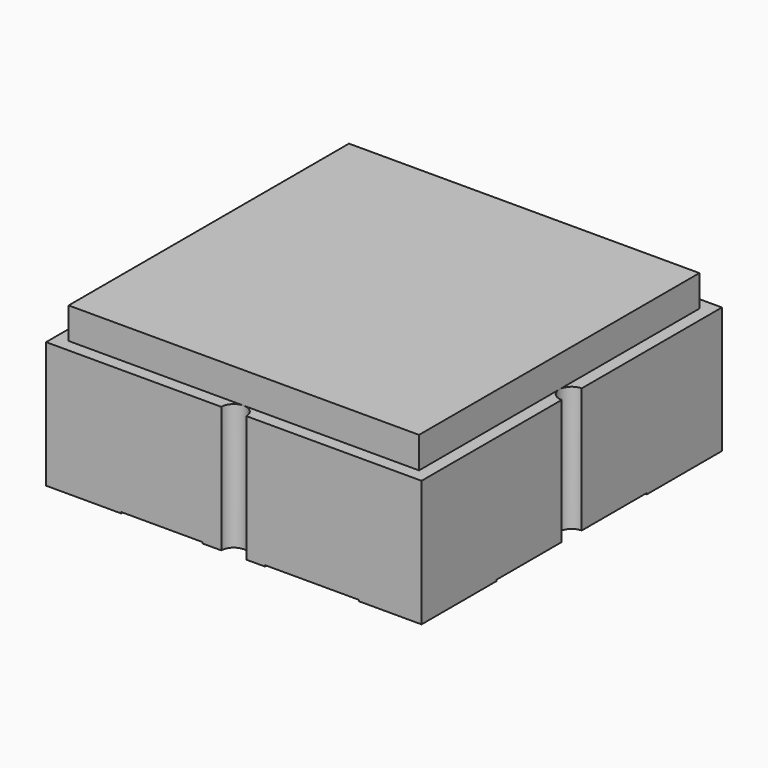
from build123d import *

# Parameters (mm, degrees)
PAD_DEPTH    = 1
SKETCH001_W  = 2.8
SKETCH001_H  = 2.8
PAD001_DEPTH = 0.25
SKETCH002_W  = 0.5
SKETCH002_H  = 0.75
PAD002_DEPTH = 0.01


with BuildPart() as part:
    # Sketch → Pad (new body)
    with BuildSketch(Plane.XY):
        with BuildLine():
            Line((-1.5, -1.5), (-0.1, -1.5))
            ThreePointArc((0.1, -1.5), (0, -1.4), (-0.1, -1.5))
            Line((0.1, -1.5), (1.5, -1.5))
            Line((1.5, -0.1), (1.5, -1.5))
            ThreePointArc((1.5, 0.1), (1.4, 0), (1.5, -0.1))
            Line((1.5, 1.5), (1.5, 0.1))
            Line((0.1, 1.5), (1.5, 1.5))
            ThreePointArc((-0.1, 1.5), (0, 1.4), (0.1, 1.5))
            Line((-1.5, 1.5), (-0.1, 1.5))
            Line((-1.5, 1.5), (-1.5, 0.1))
            ThreePointArc((-1.5, -0.1), (-1.4, 0), (-1.5, 0.1))
            Line((-1.5, -0.1), (-1.5, -1.5))
        make_face()
    extrude(amount=PAD_DEPTH)

    # Sketch001 (on Face14 of Pad) → Pad001 (join)
    with BuildSketch(Plane.XY.offset(1)):
        Rectangle(SKETCH001_W, SKETCH001_H)
    extrude(amount=PAD001_DEPTH)

    # Sketch002 (on Face4 of Pad001) → Pad002 (join)
    with BuildSketch(Plane(origin=(0, 0, 0), x_dir=(1, 0, 0), z_dir=(0, 0, -1))):
        with BuildLine():
            Line((-1.5, 1.5), (-0.9, 1.5))
            Line((-0.9, 1.5), (-0.9, 0))
            Line((-0.9, 0), (-1.4, 0))
            ThreePointArc((-1.4, 0), (-1.429289, 0.070711), (-1.5, 0.1))
            Line((-1.5, 1.5), (-1.5, 0.1))
        make_face()
        with BuildLine():
            Line((0.25, 0.75), (-0.25, 0.75))
            Line((-0.25, 0.75), (-0.25, 1.5))
            Line((-0.25, 1.5), (-0.1, 1.5))
            ThreePointArc((-0.1, 1.5), (0, 1.4), (0.1, 1.5))
            Line((0.1, 1.5), (0.25, 1.5))
            Line((0.25, 1.5), (0.25, 0.75))
        make_face()
        with Locations((1.25, 1.125)):
            Rectangle(SKETCH002_W, SKETCH002_H)
        with Locations((1.25, -1.125)):
            Rectangle(SKETCH002_W, SKETCH002_H)
        with BuildLine():
            Line((-0.25, -1.5), (-0.25, -0.75))
            Line((-0.25, -0.75), (0.25, -0.75))
            Line((0.25, -0.75), (0.25, -1.5))
            Line((0.25, -1.5), (0.1, -1.5))
            ThreePointArc((0.1, -1.5), (0, -1.4), (-0.1, -1.5))
            Line((-0.1, -1.5), (-0.25, -1.5))
        make_face()
        with Locations((-1.25, -1.125)):
            Rectangle(SKETCH002_W, SKETCH002_H)
    extrude(amount=PAD002_DEPTH)


solid = part.part
